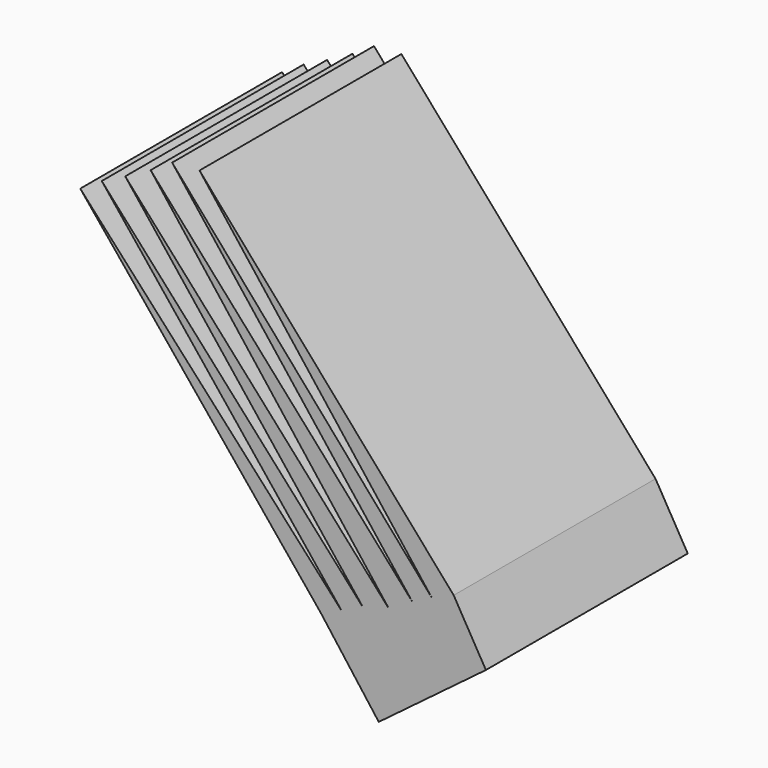
from build123d import *

# Parameters (mm, degrees)
F1_DEPTH = 25.4
F2_DEPTH = 25.4


with BuildPart() as f1:
    # F0 (on Front) → F1 (new body)
    with BuildSketch(Plane.XZ):
        Polygon((-59.2448, 50.682843), (-35.03513, 20.962032), (-29.193482, 13.1901), (-18.408047, 21.296799), (-21.650923, 26.866825), (-47.238376, 56.193985), (-23.816016, 25.882695), (-49.993947, 55.997163), (-25.78428, 24.898561), (-52.159041, 54.619372), (-28.1462, 23.520775), (-54.717787, 53.241584), (-30.704945, 22.733469), (-57.079706, 52.060626), (-32.870036, 21.749334), align=None)
    extrude(amount=F1_DEPTH)

    # F0 (on Front) → F2 (join)
    with BuildSketch(Plane.XZ):
        Polygon((-59.2448, 50.682843), (-35.03513, 20.962032), (-29.193482, 13.1901), (-18.408047, 21.296799), (-21.650923, 26.866825), (-47.238376, 56.193985), (-23.816016, 25.882695), (-49.993947, 55.997163), (-25.78428, 24.898561), (-52.159041, 54.619372), (-28.1462, 23.520775), (-54.717787, 53.241584), (-30.704945, 22.733469), (-57.079706, 52.060626), (-32.870036, 21.749334), align=None)
    extrude(amount=F2_DEPTH)


solid = f1.part
